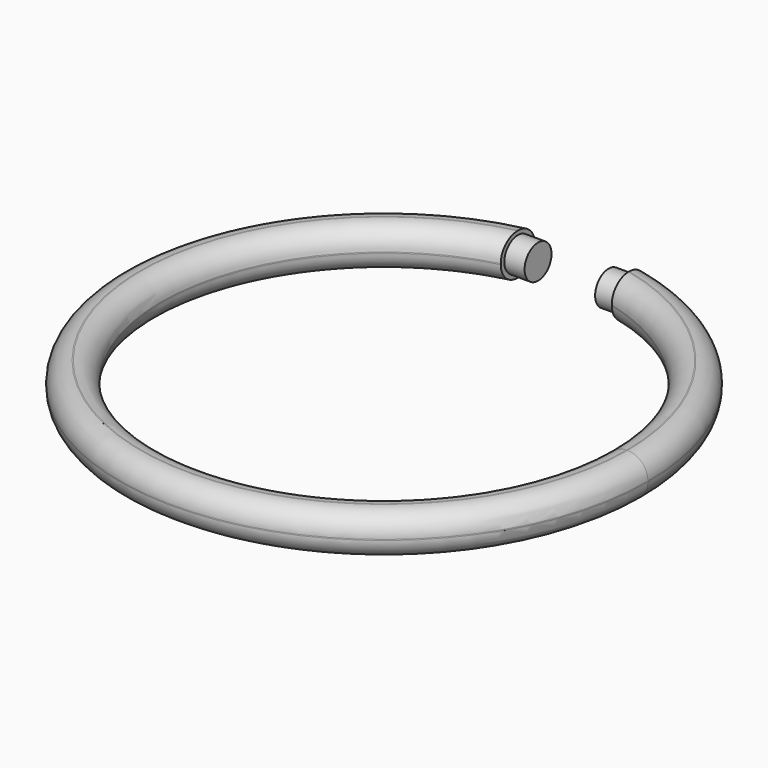
from build123d import *

# Parameters (mm, degrees)
F1_DEPTH = 3.1242
F3_DEPTH = 1.524
F5_DEPTH = 1.524
F6_R     = 1.524


with BuildPart() as f1:
    # F0 (on Top) → F1 (new body)
    with BuildSketch(Plane.XY):
        with BuildLine():
            ThreePointArc((-4.1813607, 19.4306902334), (-12.4885720893, -15.4619231476), (19.8755, 0))
            ThreePointArc((19.8755, 0), (15.4619231476, 12.4885720893), (4.1813607, 19.4306902334))
            Line((4.1813607, 19.4306902334), (4.1813607, 16.221044183))
            ThreePointArc((4.1813607, 16.221044183), (13.2410210933, 10.2606730821), (16.7513, 0))
            ThreePointArc((16.7513, 0), (-10.2606730821, -13.2410210933), (-4.1813607, 16.221044183))
            Line((-4.1813607, 16.221044183), (-4.1813607, 19.4306902334))
        make_face()
    extrude(amount=F1_DEPTH)

    # F2 (on face) → F3 (join)
    with BuildSketch(Plane(origin=(4.1813607, 0, 0), x_dir=(0, -1, 0), z_dir=(-1, 0, 0))):
        with BuildLine():
            Line((-19.0958672082, 1.5621), (-16.5558672082, 1.5621))
            ThreePointArc((-16.5558672082, 1.5621), (-17.8258672082, 2.8321), (-19.0958672082, 1.5621))
        make_face()
        with BuildLine():
            ThreePointArc((-19.0958672082, 1.5621), (-17.8258672082, 0.2921), (-16.5558672082, 1.5621))
            Line((-16.5558672082, 1.5621), (-19.0958672082, 1.5621))
        make_face()
    extrude(amount=F3_DEPTH)

    # F4 (on face) → F5 (join)
    with BuildSketch(Plane.YZ.offset(-4.1813607)):
        with BuildLine():
            ThreePointArc((16.5558672082, 1.5621), (17.8258672082, 0.2921), (19.0958672082, 1.5621))
            Line((19.0958672082, 1.5621), (16.5558672082, 1.5621))
        make_face()
        with BuildLine():
            Line((16.5558672082, 1.5621), (19.0958672082, 1.5621))
            ThreePointArc((19.0958672082, 1.5621), (17.8258672082, 2.8321), (16.5558672082, 1.5621))
        make_face()
    extrude(amount=F5_DEPTH)

    # F6
    f6_edges = [f1.edges().sort_by_distance(p)[0] for p in [
        (0, -16.7513, 3.1242),
        (-12.488572, -15.461923, 3.1242),
        (-12.488572, -15.461923, 0),
        (0, -16.7513, 0),
    ]]
    fillet(f6_edges, radius=F6_R)


solid = f1.part
